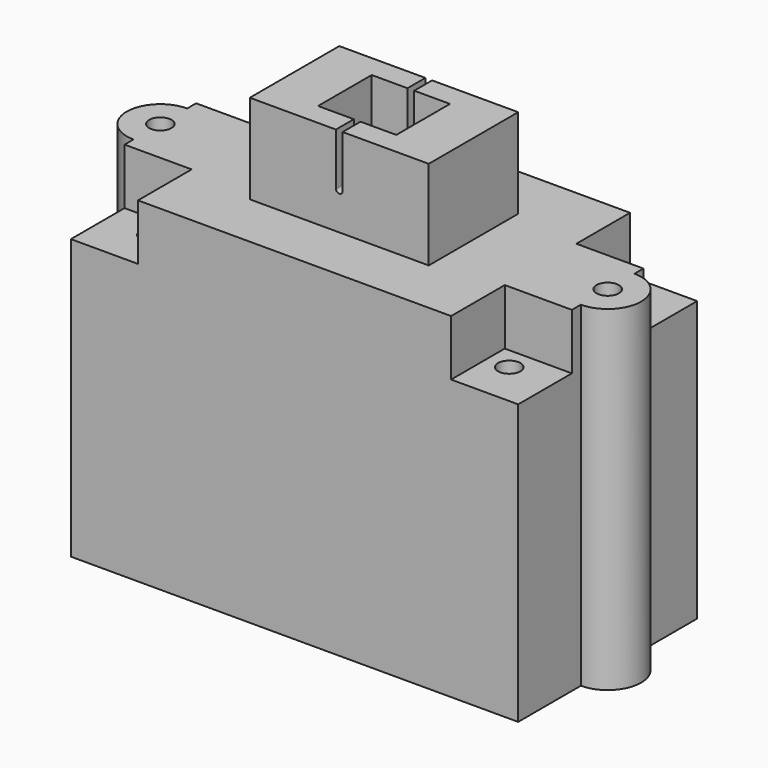
from build123d import *

# Parameters (mm, degrees)
PAD_DEPTH       = 15
SKETCH001_W     = 18
SKETCH001_H     = 8
POCKET_DEPTH    = 14
SKETCH002_R     = 1
PAD001_DEPTH    = 2
SKETCH003_R     = 0.5
POCKET001_DEPTH = 15.001
SKETCH004_W     = 8
SKETCH004_H     = 5
SKETCH004_R     = 1.25
PAD002_DEPTH    = 4
SKETCH005_W     = 3.5
SKETCH005_H     = 3
POCKET002_DEPTH = 2.5
POCKET003_DEPTH = 7.501
SKETCH007_W     = 3.5
SKETCH007_H     = 8
PAD003_DEPTH    = 3
SKETCH008_W     = 3
SKETCH008_H     = 3
POCKET004_DEPTH = 2.5
SKETCH010_R     = 0.5
POCKET005_DEPTH = 12.501
SKETCH011_R     = 0.5
POCKET006_DEPTH = 15.001
SKETCH012_W     = 1.058742
SKETCH012_H     = 1
SKETCH012_W_2   = 1.116308
POCKET007_DEPTH = 1


with BuildPart() as part:
    # Sketch → Pad (new body)
    with BuildSketch(Plane.XY):
        with BuildLine():
            Line((-10, 5), (10, 5))
            Line((10, 5), (10, 1.5))
            ThreePointArc((10, -1.5), (11.5, 0), (10, 1.5))
            Line((10, -1.5), (10, -5))
            Line((10, -5), (-10, -5))
            Line((-10, -5), (-10, -1.5))
            ThreePointArc((-10, 1.5), (-11.5, 0), (-10, -1.5))
            Line((-10, 1.5), (-10, 5))
        make_face()
    extrude(amount=PAD_DEPTH)

    # Sketch001 (on Face9 of Pad) → Pocket (cut)
    with BuildSketch(Plane(origin=(0, 0, 0), x_dir=(1, 0, 0), z_dir=(0, 0, -1))):
        Rectangle(SKETCH001_W, SKETCH001_H)
    extrude(amount=-POCKET_DEPTH, mode=Mode.SUBTRACT)

    # Sketch002 (on Face15 of Pocket) → Pad001 (join)
    with BuildSketch(Plane(origin=(0, 0, 14), x_dir=(1, 0, 0), z_dir=(0, 0, -1))):
        with Locations((-2.5, 0)):
            Circle(SKETCH002_R)
        with Locations((2.5, 0)):
            Circle(SKETCH002_R)
    extrude(amount=PAD001_DEPTH)

    # Sketch003 (on Face5 of Pad001) → Pocket001 (cut, through all)
    with BuildSketch(Plane.XY.offset(15)):
        Circle(SKETCH003_R)
    extrude(amount=-POCKET001_DEPTH, mode=Mode.SUBTRACT)

    # Sketch004 (on Face5 of Pocket001) → Pad002 (join)
    with BuildSketch(Plane.XY.offset(15)):
        Rectangle(SKETCH004_W, SKETCH004_H)
        Circle(SKETCH004_R, mode=Mode.SUBTRACT)
    extrude(amount=PAD002_DEPTH)

    # Sketch005 (on Face20 of Pad002) → Pocket002 (cut)
    with BuildSketch(Plane.XY.offset(19)):
        Rectangle(SKETCH005_W, SKETCH005_H)
    extrude(amount=-POCKET002_DEPTH, mode=Mode.SUBTRACT)

    # Sketch006 (on Face16 of Pocket002) → Pocket003 (cut, through all)
    with BuildSketch(Plane.XZ.offset(2.5)):
        with BuildLine():
            ThreePointArc((0.15, 19.022961), (0, 19.172961), (-0.15, 19.022961))
            Line((-0.15, 19.022961), (-0.15, 16.673611))
            ThreePointArc((-0.15, 16.673611), (0, 16.523611), (0.15, 16.673611))
            Line((0.15, 16.673611), (0.15, 19.022961))
        make_face()
    extrude(amount=-POCKET003_DEPTH, mode=Mode.SUBTRACT)

    # Sketch007 (on Face19 of Pocket003) → Pad003 (join)
    with BuildSketch(Plane(origin=(0, 0, 14), x_dir=(1, 0, 0), z_dir=(0, 0, -1))):
        with Locations((7.25, 0)):
            Rectangle(SKETCH007_W, SKETCH007_H)
        with Locations((-7.25, 0)):
            Rectangle(SKETCH007_W, SKETCH007_H)
    extrude(amount=PAD003_DEPTH)

    # Sketch008 (on Face5 of Pad003) → Pocket004 (cut)
    with BuildSketch(Plane.XY.offset(15)):
        with Locations((8.5, -3.5)):
            Rectangle(SKETCH008_W, SKETCH008_H)
        with Locations((8.5, 3.5)):
            Rectangle(SKETCH008_W, SKETCH008_H)
        with Locations((-8.5, -3.5)):
            Rectangle(SKETCH008_W, SKETCH008_H)
        with Locations((-8.5, 3.5)):
            Rectangle(SKETCH008_W, SKETCH008_H)
    extrude(amount=-POCKET004_DEPTH, mode=Mode.SUBTRACT)

    # Sketch010 → Pocket005 (cut, through all)
    with BuildSketch(Plane.XY.offset(12.5)):
        with Locations((8, -3)):
            Circle(SKETCH010_R)
        with Locations((8, 3)):
            Circle(SKETCH010_R)
        with Locations((-8, 3)):
            Circle(SKETCH010_R)
        with Locations((-8, -3)):
            Circle(SKETCH010_R)
    extrude(amount=-POCKET005_DEPTH, mode=Mode.SUBTRACT)

    # Sketch011 (on Face6 of Pocket005) → Pocket006 (cut, through all)
    with BuildSketch(Plane.XY.offset(15)):
        with Locations((-10, 0)):
            Circle(SKETCH011_R)
        with Locations((10, 0)):
            Circle(SKETCH011_R)
    extrude(amount=-POCKET006_DEPTH, mode=Mode.SUBTRACT)

    # Sketch012 (on Face2 of Pocket006) → Pocket007 (cut)
    with BuildSketch(Plane(origin=(0, 0, 0), x_dir=(1, 0, 0), z_dir=(0, 0, -1))):
        with Locations((-9.46722, -1.2e-05)):
            Rectangle(SKETCH012_W, SKETCH012_H)
        with Locations((9.416079, -0.000664)):
            Rectangle(SKETCH012_W_2, SKETCH012_H)
    extrude(amount=-POCKET007_DEPTH, mode=Mode.SUBTRACT)


solid = part.part
